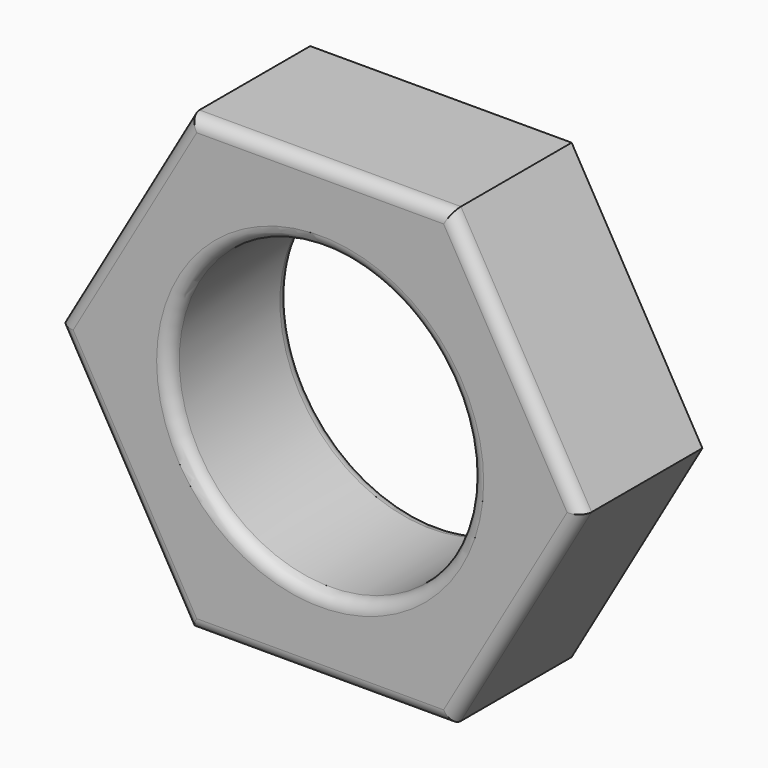
from build123d import *

# Parameters (mm, degrees)
F1_DEPTH = 6
F2_R     = 6
F3_DEPTH = 25
F4_R     = 0.5


with BuildPart() as f1:
    # F0 (on Front) → F1 (new body)
    with BuildSketch(Plane.XZ):
        Polygon((5.1961524227, 9), (-5.1961524227, 9), (-10.3923048454, 0), (-5.1961524227, -9), (5.1961524227, -9), (10.3923048454, 0), align=None)
    extrude(amount=F1_DEPTH)

    # F2 (on face) → F3 (cut)
    with BuildSketch(Plane.XZ.offset(6)):
        Circle(F2_R)
    extrude(amount=-F3_DEPTH, mode=Mode.SUBTRACT)

    # F4
    f4_edges = [f1.edges().sort_by_distance(p)[0] for p in [
        (7.794229, -6, 4.5),
        (7.794229, -6, -4.5),
        (0, -6, 9),
        (0, -6, -9),
        (-7.794229, -6, 4.5),
        (-7.794229, -6, -4.5),
        (-6, -6, 0),
        (-6, 0, 0),
    ]]
    fillet(f4_edges, radius=F4_R)


solid = f1.part
